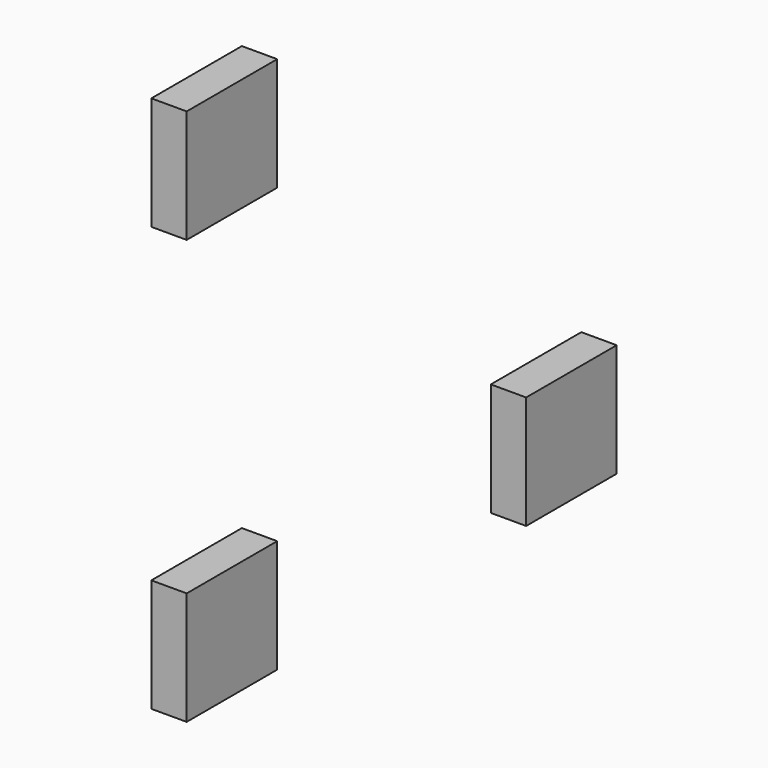
from build123d import *

# Parameters (mm, degrees)
BOX810_W     = 8
BOX810_H     = 2.5
BOX810_DEPTH = 8
BOX808_W     = 8
BOX808_H     = 2.5
BOX808_DEPTH = 8
BOX811_W     = 8
BOX811_H     = 2.5
BOX811_DEPTH = 8


with BuildPart() as krychle810:
    # Box810 → Box810 (new body)
    with BuildSketch(Plane(origin=(-68, 16, 35), x_dir=(0, 1, 0), z_dir=(0, 0, 1))):
        with Locations((4, 1.25)):
            Rectangle(BOX810_W, BOX810_H)
    extrude(amount=BOX810_DEPTH)


with BuildPart() as krychle808:
    # Box808 → Box808 (new body)
    with BuildSketch(Plane(origin=(-68, -14, 65), x_dir=(0, 1, 0), z_dir=(0, 0, 1))):
        with Locations((4, 1.25)):
            Rectangle(BOX808_W, BOX808_H)
    extrude(amount=BOX808_DEPTH)


with BuildPart() as compound942:
    # Box811 → Box811 (new body)
    with BuildSketch(Plane(origin=(-68, -14, 35), x_dir=(0, 1, 0), z_dir=(0, 0, 1))):
        with Locations((4, 1.25)):
            Rectangle(BOX811_W, BOX811_H)
    extrude(amount=BOX811_DEPTH)

    # Compound942: union Krychle810, Krychle808
    add(krychle810.part)
    add(krychle808.part)


with BuildPart() as compound942_mirrored:
    # mirror006: instance of Compound942
    add(compound942.part.mirror(Plane(origin=(0, 0, 0), x_dir=(0, -1, 0), z_dir=(1, 0, 0))))


solid = compound942_mirrored.part
